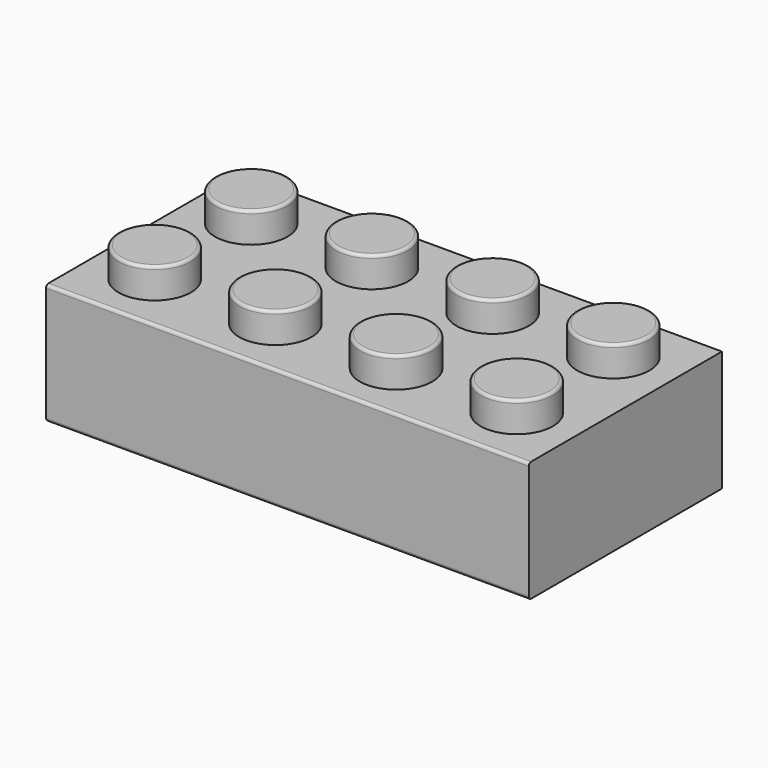
from build123d import *

# Parameters (mm, degrees)
F0_W     = 160
F0_H     = 80
F1_DEPTH = 40
F2_W     = 144
F2_H     = 64
F3_DEPTH = 30
F4_R     = 12
F5_DEPTH = 10
F6_R     = 1


with BuildPart() as f1:
    # F0 (on Top) → F1 (new body)
    with BuildSketch(Plane.XY):
        with Locations((9.3922019005, 15.3005129505)):
            Rectangle(F0_W, F0_H)
    extrude(amount=F1_DEPTH)

    # F2 (on face) → F3 (cut)
    with BuildSketch(Plane(origin=(0, 0, 0), x_dir=(1, 0, 0), z_dir=(0, 0, -1))):
        with Locations((9.3922019005, -15.3005129505)):
            Rectangle(F2_W, F2_H)
    extrude(amount=-F3_DEPTH, mode=Mode.SUBTRACT)

    # F4 (on face) → F5 (join)
    with BuildSketch(Plane.XY.offset(40)):
        with Locations((-50.6077980995, 35.3005129505)):
            Circle(F4_R)
        with Locations((-50.6077980995, -4.6994870495)):
            Circle(F4_R)
        with Locations((-10.6077980995, 35.3005129505)):
            Circle(F4_R)
        with Locations((-10.6077980995, -4.6994870495)):
            Circle(F4_R)
        with Locations((29.3922019005, 35.3005129505)):
            Circle(F4_R)
        with Locations((29.3922019005, -4.6994870495)):
            Circle(F4_R)
        with Locations((69.3922019005, 35.3005129505)):
            Circle(F4_R)
        with Locations((69.3922019005, -4.6994870495)):
            Circle(F4_R)
    extrude(amount=F5_DEPTH)

    # F6
    f6_edges = [f1.edges().sort_by_distance(p)[0] for p in [
        (-62.607798, -4.699487, 50),
        (-62.607798, 35.300513, 50),
        (-22.607798, 35.300513, 50),
        (-22.607798, -4.699487, 50),
        (9.392202, -24.699487, 0),
        (9.392202, -24.699487, 40),
        (-62.607798, -16.699487, 15),
        (-62.607798, 15.300513, 30),
        (9.392202, -16.699487, 30),
        (-70.607798, 15.300513, 0),
        (-62.607798, 15.300513, 0),
        (9.392202, -16.699487, 0),
        (17.392202, -4.699487, 50),
        (57.392202, -4.699487, 50),
        (57.392202, 35.300513, 50),
        (17.392202, 35.300513, 50),
    ]]
    fillet(f6_edges, radius=F6_R)


solid = f1.part
